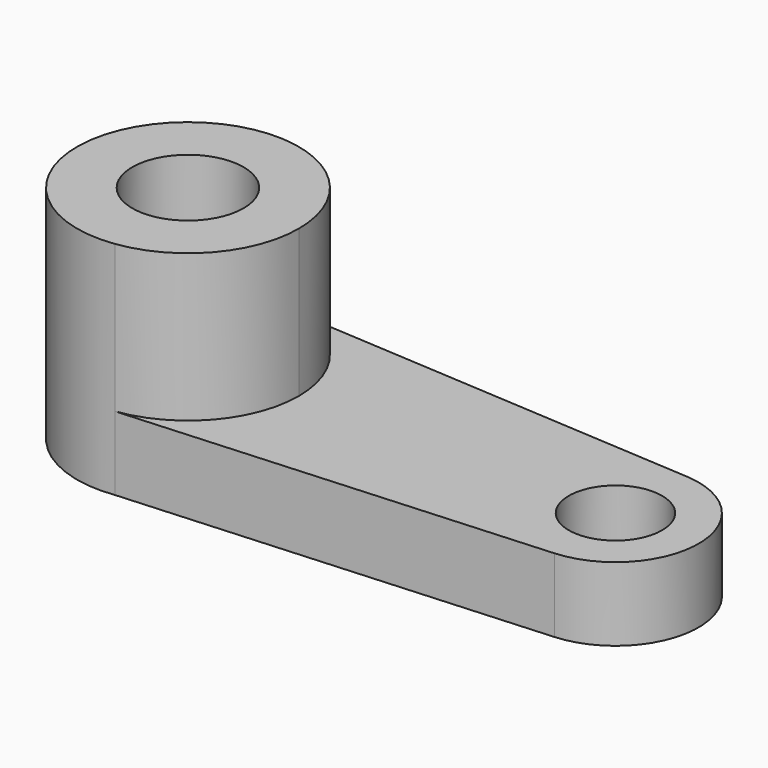
from build123d import *

# Parameters (mm, degrees)
F0_R     = 16.087734
F1_DEPTH = 25.4
F0_R_2   = 19.193831
F2_DEPTH = 76.2


with BuildPart() as f1:
    # F0 (on Top) → F1 (new body)
    with BuildSketch(Plane.XY):
        with BuildLine():
            ThreePointArc((-65.353721, 37.574831), (-42.954198, 24.427618), (-34.129272, 0))
            ThreePointArc((-34.129272, 0), (-43.542934, -25.119206), (-67.146784, -37.864785))
            Line((-67.146784, -37.864785), (76.868893, -28.595699))
            ThreePointArc((76.868893, -28.595699), (103.683287, 0.017515), (76.833934, 28.597927))
            Line((76.833934, 28.597927), (-65.353721, 37.574831))
        make_face()
        with Locations((75.028427, 0)):
            Circle(F0_R, mode=Mode.SUBTRACT)
    extrude(amount=F1_DEPTH)

    # F0 (on Top) → F2 (join)
    with BuildSketch(Plane.XY):
        with BuildLine():
            ThreePointArc((-67.146784, -37.864785), (-43.542934, -25.119206), (-34.129272, 0))
            ThreePointArc((-34.129272, 0), (-42.954198, 24.427618), (-65.353721, 37.574831))
            ThreePointArc((-65.353721, 37.574831), (-110.559674, 0.908178), (-67.146784, -37.864785))
        make_face()
        with Locations((-72.349869, 0)):
            Circle(F0_R_2, mode=Mode.SUBTRACT)
    extrude(amount=F2_DEPTH)


solid = f1.part
